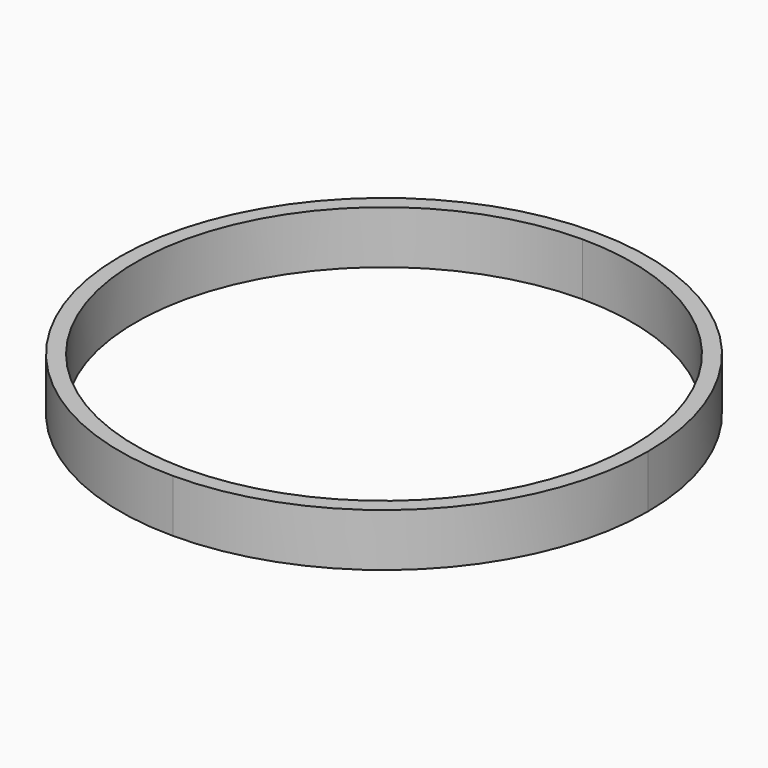
from build123d import *

# Parameters (mm, degrees)
F1_DEPTH = 31.75


with BuildPart() as f1:
    # F0 (on Top) → F1 (new body)
    with BuildSketch(Plane.XY):
        with BuildLine():
            ThreePointArc((0, -158.623), (112.163399, -112.163399), (158.623, 0))
            ThreePointArc((158.623, 0), (112.163399, 112.163399), (0, 158.623))
            Line((0, 158.623), (0, 149.225))
            ThreePointArc((0, 149.225), (105.518009, 105.518009), (149.225, 0))
            ThreePointArc((149.225, 0), (105.518009, -105.518009), (0, -149.225))
            Line((0, -149.225), (0, -158.623))
        make_face()
        with BuildLine():
            Line((0, 149.225), (0, 158.623))
            ThreePointArc((0, 158.623), (-158.623, 0), (0, -158.623))
            Line((0, -158.623), (0, -149.225))
            ThreePointArc((0, -149.225), (-149.225, 0), (0, 149.225))
        make_face()
    extrude(amount=F1_DEPTH)


solid = f1.part
